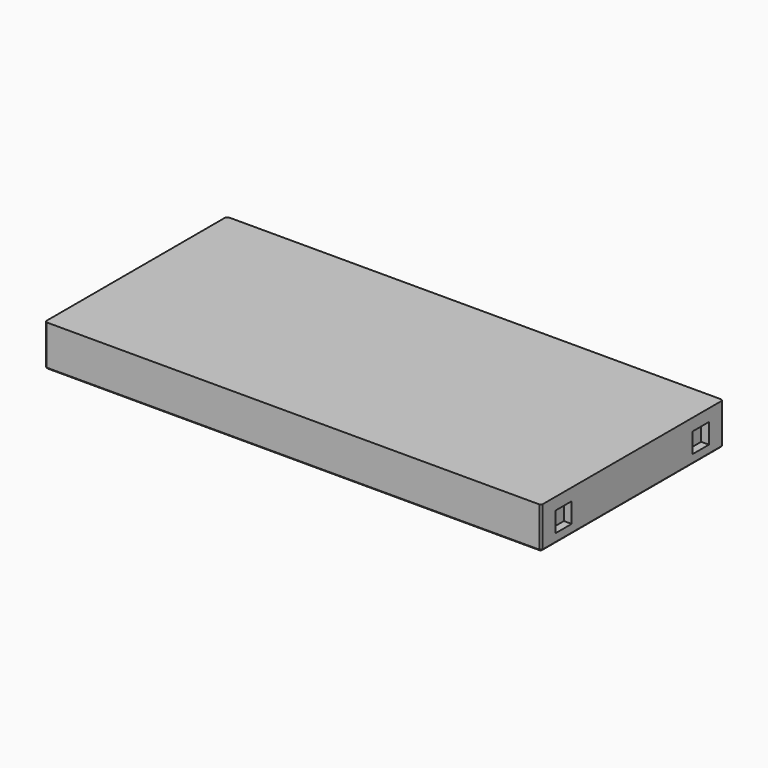
from build123d import *

# Parameters (mm, degrees)
F0_W     = 1600
F0_H     = 133.333333
F1_DEPTH = 733.33333
F2_W     = 66.013813
F2_H     = 66.013888
F2_W_2   = 66.013865
F3_DEPTH = 25
F4_W     = 66.013933
F4_H     = 64.465052
F4_W_2   = 66
F5_DEPTH = 25
F6_R     = 33
F6_R_2   = 35.83127
F7_DEPTH = 25
F8_SIZE  = 5


with BuildPart() as f1:
    # F0 (on Front) → F1 (new body)
    with BuildSketch(Plane.XZ):
        with Locations((289.523828, -66.666666)):
            Rectangle(F0_W, F0_H)
    extrude(amount=F1_DEPTH)

    # F2 (on face) → F3 (cut)
    with BuildSketch(Plane(origin=(-510.476172, 0, 0), x_dir=(0, -1, 0), z_dir=(-1, 0, 0))):
        with Locations((641.946792, -65.710075)):
            Rectangle(F2_W, F2_H)
        with Locations((88.687494, -65.710075)):
            Rectangle(F2_W_2, F2_H)
    extrude(amount=-F3_DEPTH, mode=Mode.SUBTRACT)

    # F4 (on face) → F5 (cut)
    with BuildSketch(Plane.YZ.offset(1089.523828)):
        with Locations((-643.518507, -71.211226)):
            Rectangle(F4_W, F4_H)
        with Locations((-90.259247, -71.211226)):
            Rectangle(F4_W_2, F4_H)
    extrude(amount=-F5_DEPTH, mode=Mode.SUBTRACT)

    # F6 (on face) → F7 (cut)
    with BuildSketch(Plane(origin=(0, 0, -133.333333), x_dir=(1, 0, 0), z_dir=(0, 0, -1))):
        with Locations((829.661692, 564.145236)):
            Circle(F6_R)
        with Locations((831.78674, 175.145387)):
            Circle(F6_R)
        with Locations((-279.980277, 164.223653)):
            Circle(F6_R)
        with Locations((-285.49944, 574.017474)):
            Circle(F6_R_2)
    extrude(amount=-F7_DEPTH, mode=Mode.SUBTRACT)

    # F8
    f8_edges = [f1.edges().sort_by_distance(p)[0] for p in [
        (289.523828, -733.33333, -133.333333),
        (1089.523828, -733.33333, -66.666667),
        (1089.523828, -366.666665, -133.333333),
        (1089.523828, 0, -66.666667),
        (289.523828, 0, -133.333333),
        (-510.476172, -366.666665, -133.333333),
        (-510.476172, 0, -66.666667),
        (-510.476172, -733.33333, -66.666667),
    ]]
    chamfer(f8_edges, length=F8_SIZE)


solid = f1.part
